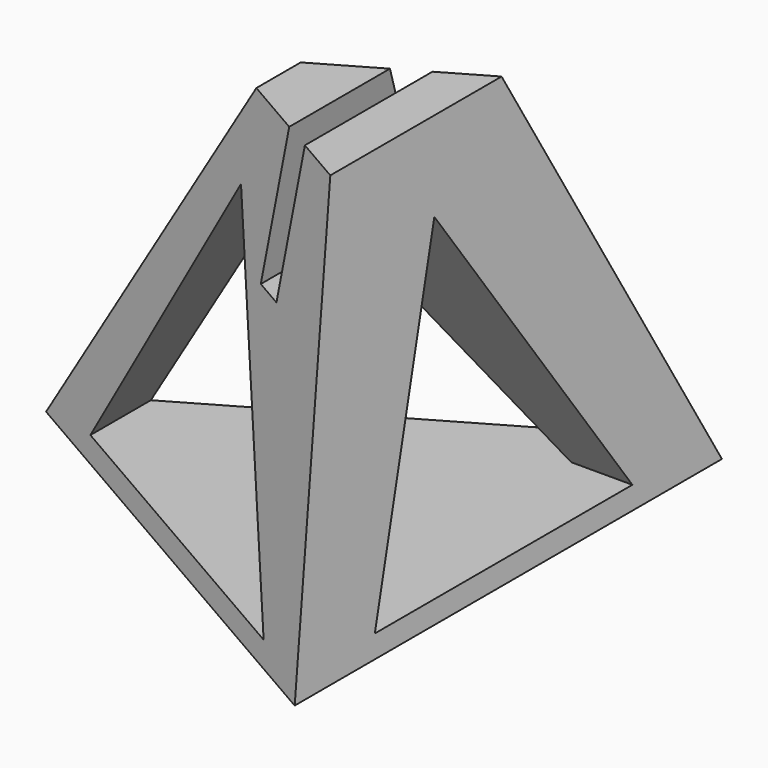
from build123d import *

# Parameters (mm, degrees)
F5_DEPTH       = 40
F10_DEPTH      = 100
F10_DEPTH_BACK = 100
F12_DEPTH      = 100
F12_DEPTH_BACK = 25


with BuildPart() as f3:
    # F0 (on Top) → F3 section 0
    with BuildSketch(Plane.XY):
        Polygon((49.7695431113, -86.2033773383), (49.7695431113, 86.2033773383), (-99.5390862226, 0), align=None)
    # F2 (on offset) → F3 section 1
    with BuildSketch(Plane.XY.offset(120)):
        Polygon((19.951004535, -34.5561535166), (19.951004535, 34.5561535166), (-39.9020090699, 0), align=None)
    loft()

    # F4 (on face) → F5 (cut)
    with BuildSketch(Plane.XY.offset(120)):
        Polygon((4.6946327202, -25.7478831425), (4.6946327202, 25.7478831425), (-4.6946327202, 20.326988213), (-4.6946327202, -20.326988213), align=None)
        Polygon((4.6946327202, 25.7478831425), (4.6946327202, 48.1600351632), (-4.6946327202, 48.1600351632), (-4.6946327202, 20.326988213), align=None)
        Polygon((4.6946327202, -48.1600351632), (4.6946327202, -25.7478831425), (-4.6946327202, -20.326988213), (-4.6946327202, -48.1600351632), align=None)
    extrude(amount=-F5_DEPTH, mode=Mode.SUBTRACT)

    # F8: sweep along a path in F7
    with BuildLine(Plane.XZ) as f8_path:
        Line((-31.9719016552, 120.4966977239), (-107.2546765208, 0))
    # F6 (on face) → F8 (sweep, cut)
    with BuildSketch(Plane.XY.offset(120)):
        Polygon((-40.3947457671, 19.6701809764), (-40.3947457671, -19.6701809764), (-24.4082733989, -19.6701809764), (-24.4082733989, -8.9453124604), (-24.4082733989, 19.6701809764), align=None)
    sweep(path=f8_path.line, mode=Mode.SUBTRACT)

    # F9 (on Front) → F10 (cut, two sides)
    with BuildSketch(Plane.XZ) as f10_sk:
        Polygon((-75.3909720121, 6.0918268561), (28.532076442, 6.0918268561), (-23.429447785, 96.0918268561), align=None)
    extrude(amount=-F10_DEPTH, mode=Mode.SUBTRACT)
    extrude(f10_sk.sketch, amount=F10_DEPTH_BACK, mode=Mode.SUBTRACT)

    # F11 (on Right) → F12 (cut, two sides)
    with BuildSketch(Plane.YZ) as f12_sk:
        Polygon((-51.9615242271, 6.0918268561), (51.9615242271, 6.0918268561), (0, 96.0918268561), align=None)
    extrude(amount=F12_DEPTH, mode=Mode.SUBTRACT)
    extrude(f12_sk.sketch, amount=-F12_DEPTH_BACK, mode=Mode.SUBTRACT)


solid = f3.part
